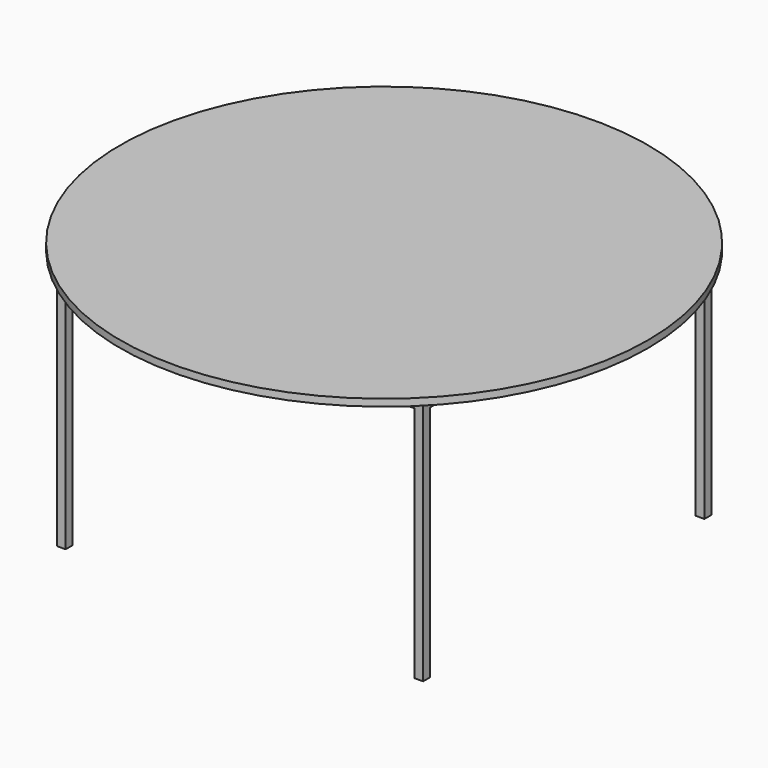
from build123d import *

# Parameters (mm, degrees)
F0_W     = 25
F0_H     = 25
F1_DEPTH = 700
F0_W_2   = 990.68439
F0_H_2   = 974
F2_DEPTH = 25
F3_R     = 750
F4_DEPTH = 20
F5_R     = 750
F6_DEPTH = 20
F7_R     = 9


with BuildPart() as f1:
    # F0 (on Top) → F1 (new body)
    with BuildSketch(Plane.XY):
        with Locations((-507.842195, -499.5)):
            Rectangle(F0_W, F0_H)
        with Locations((507.842195, -499.5)):
            Rectangle(F0_W, F0_H)
        with Locations((507.842195, 499.5)):
            Rectangle(F0_W, F0_H)
        with Locations((-507.842195, 499.5)):
            Rectangle(F0_W, F0_H)
    extrude(amount=-F1_DEPTH)


with BuildPart() as f2:
    # F0 (on Top) → F2 (new body)
    with BuildSketch(Plane.XY):
        with Locations((0, -499.5)):
            Rectangle(F0_W_2, F0_H)
        with Locations((507.842195, 0)):
            Rectangle(F0_W, F0_H_2)
        with Locations((0, 499.5)):
            Rectangle(F0_W_2, F0_H)
        with Locations((-507.842195, 0)):
            Rectangle(F0_W, F0_H_2)
    extrude(amount=-F2_DEPTH)


with BuildPart() as f4:
    # F3 (on Top) → F4 (new body)
    with BuildSketch(Plane.XY):
        Circle(F3_R)
    extrude(amount=F4_DEPTH)

    # F7
    f7_edges = [f4.edges().sort_by_distance(p)[0] for p in [
        (750, 0, 10),
        (-750, 0, 0),
        (-750, 0, 20),
    ]]
    fillet(f7_edges, radius=F7_R)


with BuildPart() as f6:
    # F5 (on Top) → F6 (new body)
    with BuildSketch(Plane.XY):
        Circle(F5_R)
    extrude(amount=F6_DEPTH)


solid = Compound([f1.part, f2.part, f4.part, f6.part])
